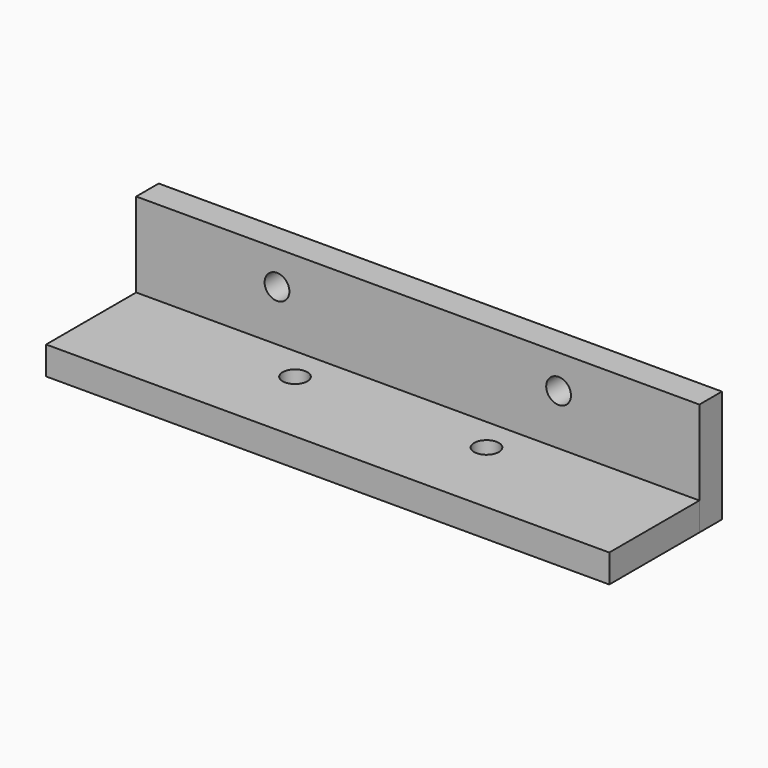
from build123d import *

# Parameters (mm, degrees)
SKETCH_W     = 100
SKETCH_H     = 20
SKETCH_R     = 2.2
PAD_DEPTH    = 5
SKETCH001_W  = 100
SKETCH001_H  = 20
SKETCH001_R  = 2.2
PAD001_DEPTH = 5


with BuildPart() as pad:
    # Sketch → Pad (new body)
    with BuildSketch(Plane.XY):
        Rectangle(SKETCH_W, SKETCH_H)
        with Locations((17, 4)):
            Circle(SKETCH_R, mode=Mode.SUBTRACT)
        with Locations((-17, 4)):
            Circle(SKETCH_R, mode=Mode.SUBTRACT)
    extrude(amount=PAD_DEPTH)


with BuildPart() as pad001:
    # Sketch001 → Pad001 (new body)
    with BuildSketch(Plane(origin=(0, 15, 10), x_dir=(1, 0, 0), z_dir=(0, -1, 0))):
        Rectangle(SKETCH001_W, SKETCH001_H)
        with Locations((25, 4)):
            Circle(SKETCH001_R, mode=Mode.SUBTRACT)
        with Locations((-25, 4)):
            Circle(SKETCH001_R, mode=Mode.SUBTRACT)
    extrude(amount=PAD001_DEPTH)


solid = Compound([pad.part, pad001.part])
